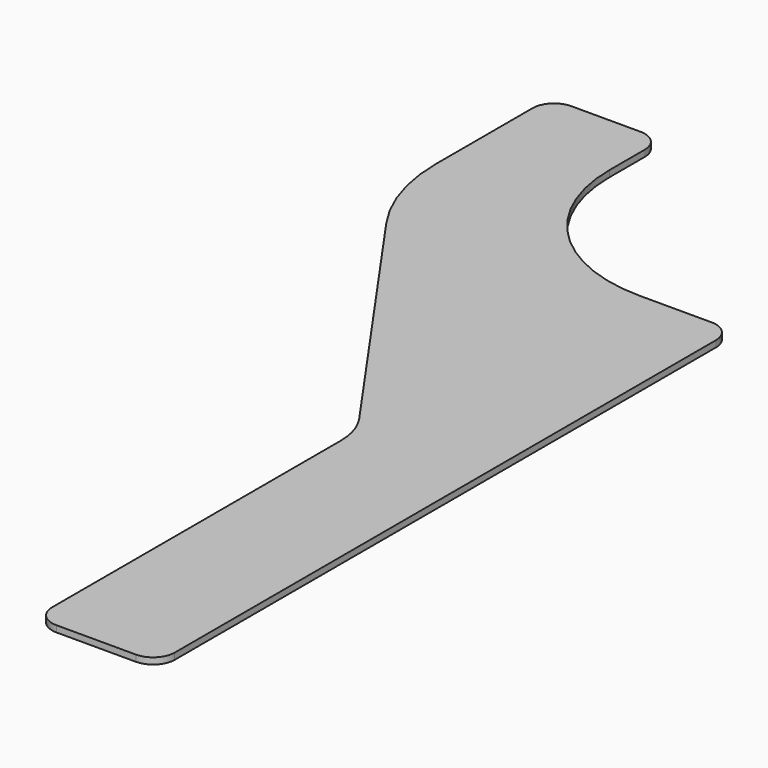
from build123d import *

# Parameters (mm, degrees)
F1_DEPTH = 3.2


with BuildPart() as f1:
    # F0 (on Top) → F1 (new body)
    with BuildSketch(Plane.XY):
        with BuildLine():
            Line((0, 191.76), (0, 10.8))
            ThreePointArc((0, 10.8), (3.163247, 3.163247), (10.8, 0))
            Line((10.8, 0), (50.7, 0))
            ThreePointArc((50.7, 0), (58.336753, 3.163247), (61.5, 10.8))
            Line((61.5, 10.8), (61.5, 350.02))
            ThreePointArc((61.5, 350.02), (58.336753, 357.656753), (50.7, 360.82))
            Line((50.7, 360.82), (14.7, 360.82))
            ThreePointArc((14.7, 360.82), (-38.969405, 383.050595), (-61.2, 436.72))
            Line((-61.2, 436.72), (-61.2, 458.84))
            ThreePointArc((-61.2, 458.84), (-64.363247, 466.476753), (-72, 469.64))
            Line((-72, 469.64), (-106.7, 469.64))
            ThreePointArc((-106.7, 469.64), (-114.336753, 466.476753), (-117.5, 458.84))
            Line((-117.5, 458.84), (-117.5, 398.254552))
            ThreePointArc((-117.5, 398.254552), (-113.357667, 371.341383), (-101.314108, 346.919461))
            Line((-101.314108, 346.919461), (-6.004152, 210.802738))
            ThreePointArc((-6.004152, 210.802738), (-1.536597, 201.743433), (0, 191.76))
        make_face()
    extrude(amount=F1_DEPTH)


solid = f1.part
